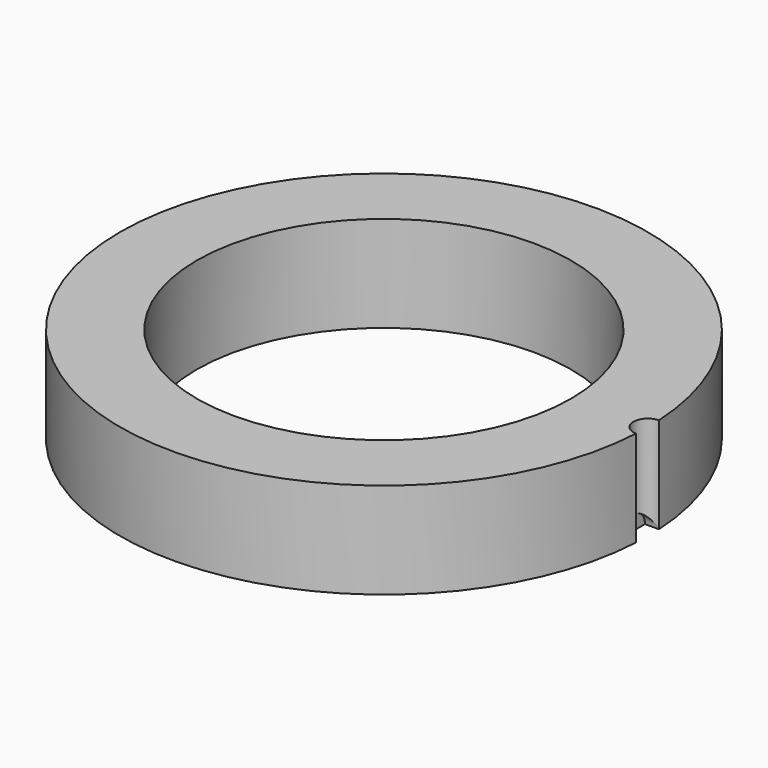
from build123d import *

# Parameters (mm, degrees)
SKETCH_R        = 27.5
SKETCH_R_2      = 19.5
PAD_DEPTH       = 10
SKETCH001_R     = 1.5
POCKET_DEPTH    = 10
SKETCH002_R     = 1.5
POCKET001_DEPTH = 1.5


with BuildPart() as part:
    # Sketch → Pad (new body)
    with BuildSketch(Plane.XY):
        Circle(SKETCH_R)
        Circle(SKETCH_R_2, mode=Mode.SUBTRACT)
    extrude(amount=PAD_DEPTH)

    # Sketch001 → Pocket (cut)
    with BuildSketch(Plane(origin=(27.5, 0, 0), x_dir=(1, 0, 0), z_dir=(0, 0, 1))):
        Circle(SKETCH001_R)
    extrude(amount=POCKET_DEPTH, mode=Mode.SUBTRACT)

    # Sketch002 → Pocket001 (cut)
    with BuildSketch(Plane.YZ.offset(27.5)):
        Circle(SKETCH002_R)
    extrude(amount=-POCKET001_DEPTH, mode=Mode.SUBTRACT)


solid = part.part
